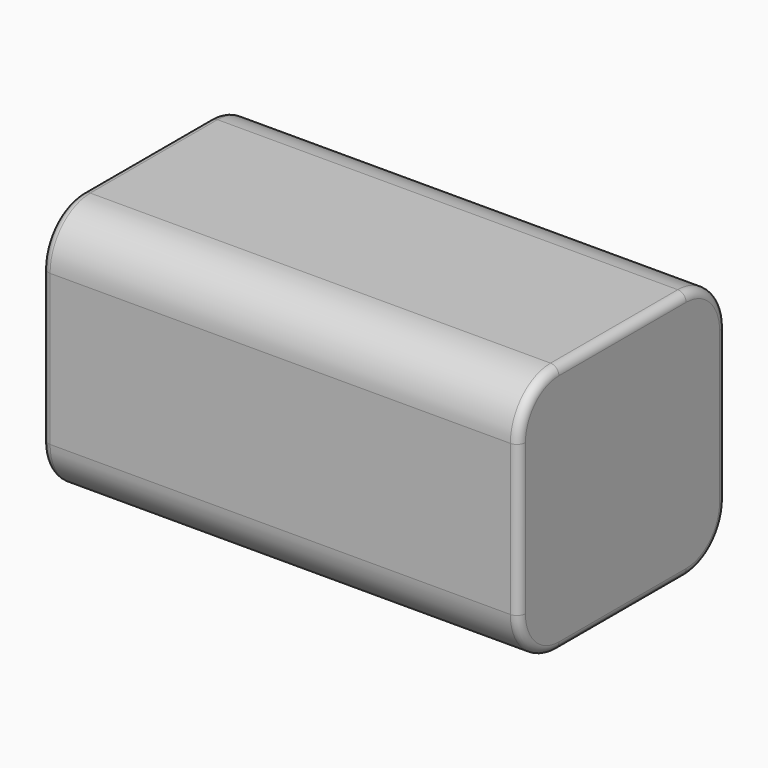
from build123d import *

# Parameters (mm, degrees)
PAD_DEPTH = 28.5
FILLET_R  = 1


with BuildPart() as battery_fillet:
    # Sketch → Pad (new body, symmetric)
    with BuildSketch(Plane.YZ):
        with BuildLine():
            Line((9.5, -15), (-9.5, -15))
            ThreePointArc((-15.5, -9), (-13.742641, -13.242641), (-9.5, -15))
            Line((-15.5, -9), (-15.5, 9))
            ThreePointArc((-9.5, 15), (-13.742641, 13.242641), (-15.5, 9))
            Line((-9.5, 15), (9.5, 15))
            ThreePointArc((15.5, 9), (13.742641, 13.242641), (9.5, 15))
            Line((15.5, 9), (15.5, -9))
            ThreePointArc((9.5, -15), (13.742641, -13.242641), (15.5, -9))
        make_face()
    extrude(amount=PAD_DEPTH, both=True)

    # Fillet
    fillet_edges = [battery_fillet.edges().sort_by_distance(p)[0] for p in [
        (-28.5, 0, -15),
        (28.5, 0, -15),
        (-28.5, -13.742641, -13.242641),
        (28.5, -13.742641, -13.242641),
        (-28.5, -15.5, 0),
        (28.5, -15.5, 0),
        (-28.5, -13.742641, 13.242641),
        (28.5, -13.742641, 13.242641),
        (-28.5, 0, 15),
        (28.5, 0, 15),
        (-28.5, 13.742641, 13.242641),
        (28.5, 13.742641, 13.242641),
        (-28.5, 15.5, 0),
        (28.5, 15.5, 0),
        (-28.5, 13.742641, -13.242641),
        (28.5, 13.742641, -13.242641),
    ]]
    fillet(fillet_edges, radius=FILLET_R)


with BuildPart() as battery:
    # Clone base: copy of battery-fillet
    add(battery_fillet.part)


solid = Compound([battery_fillet.part, battery.part])
